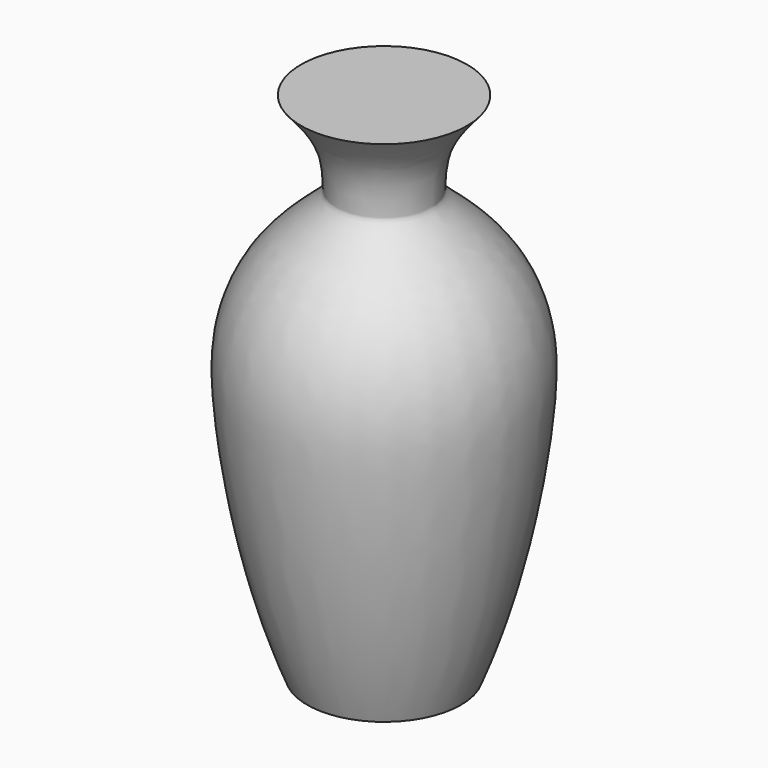
from build123d import *


with BuildPart() as f1:
    # F0 (on Front) → F1 (revolve)
    with BuildSketch(Plane.XZ):
        with BuildLine():
            Line((0, 150), (0, 0))
            Line((0, 0), (22.562886, 0))
            add(Edge.make_bspline(
                [(22.562886, 0), (35.282277, 31.251391), (39.539625, 66.949519), (39.539625, 79.501814)],
                knots=[0, 0, 0, 0, 81.294207, 81.294207, 81.294207, 81.294207], degree=3))
            add(Edge.make_bspline(
                [(39.539625, 79.501814), (39.539625, 111.790728), (14.009927, 120.032464), (14.009927, 125.888274)],
                knots=[0, 0, 0, 0, 52.947797, 52.947797, 52.947797, 52.947797], degree=3))
            add(Edge.make_bspline(
                [(14.009927, 125.888274), (14.009927, 137.22434), (17.370936, 141.862962), (24.333693, 150)],
                knots=[0, 0, 0, 0, 26.228905, 26.228905, 26.228905, 26.228905], degree=3))
            Line((24.333693, 150), (0, 150))
        make_face()
    revolve(axis=Axis((0, 0, 75), (0, 0, -1)))


solid = f1.part
